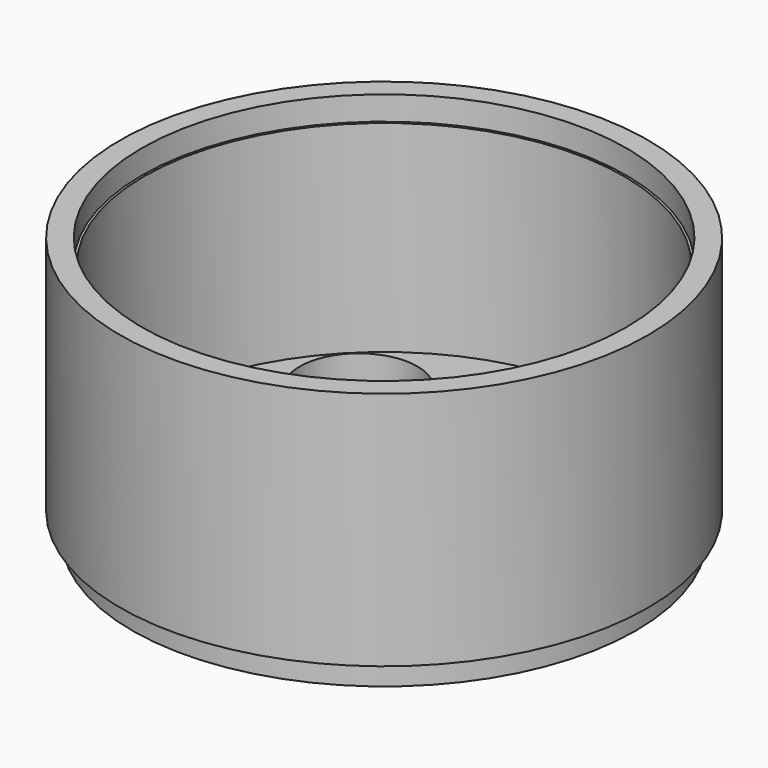
from build123d import *

# Parameters (mm, degrees)
F0_R        = 52.5
F0_R_2      = 2.5
F1_DEPTH    = 5
F0_R_3      = 55
F1_FACE_R   = 52.5
F1_FACE_R_2 = 2.5
F2_DEPTH    = 50
F3_R        = 50
F3_R_2      = 2.5
F4_DEPTH    = 47
F5_R        = 12.25
F6_DEPTH    = 8
F7_R        = 50.5
F7_R_2      = 50
F8_DEPTH    = 5


with BuildPart() as f1:
    # F0 (on Top) → F1 (new body)
    with BuildSketch(Plane.XY):
        Circle(F0_R)
        Circle(F0_R_2, mode=Mode.SUBTRACT)
    extrude(amount=-F1_DEPTH)

    # F0 (on Top) + F1_face (on face) → F2 (join)
    with BuildSketch(Plane.XY):
        Circle(F0_R_3)
        Circle(F0_R, mode=Mode.SUBTRACT)
    with BuildSketch(Plane.XY):
        Circle(F1_FACE_R)
        Circle(F1_FACE_R_2, mode=Mode.SUBTRACT)
    extrude(amount=F2_DEPTH)

    # F3 (on face) → F4 (cut)
    with BuildSketch(Plane.XY.offset(50)):
        Circle(F3_R)
        Circle(F3_R_2, mode=Mode.SUBTRACT)
    extrude(amount=-F4_DEPTH, mode=Mode.SUBTRACT)

    # F5 (on face) → F6 (cut)
    with BuildSketch(Plane.XY.offset(3)):
        with BuildLine():
            ThreePointArc((0, 25.25), (8.662058, 28.837942), (12.25, 37.5))
            ThreePointArc((12.25, 37.5), (-8.662058, 46.162058), (0, 25.25))
        make_face()
        with Locations((-26.516504, 26.516504)):
            Circle(F5_R)
        with Locations((-37.5, 0)):
            Circle(F5_R)
        with Locations((-26.516504, -26.516504)):
            Circle(F5_R)
        with Locations((0, -37.5)):
            Circle(F5_R)
        with Locations((26.516504, -26.516504)):
            Circle(F5_R)
        with Locations((26.516504, 26.516504)):
            Circle(F5_R)
        with Locations((37.5, 0)):
            Circle(F5_R)
    extrude(amount=-F6_DEPTH, mode=Mode.SUBTRACT)

    # F7 (on face) → F8 (cut)
    with BuildSketch(Plane.XY.offset(50)):
        Circle(F7_R)
        Circle(F7_R_2, mode=Mode.SUBTRACT)
    extrude(amount=-F8_DEPTH, mode=Mode.SUBTRACT)


solid = f1.part
